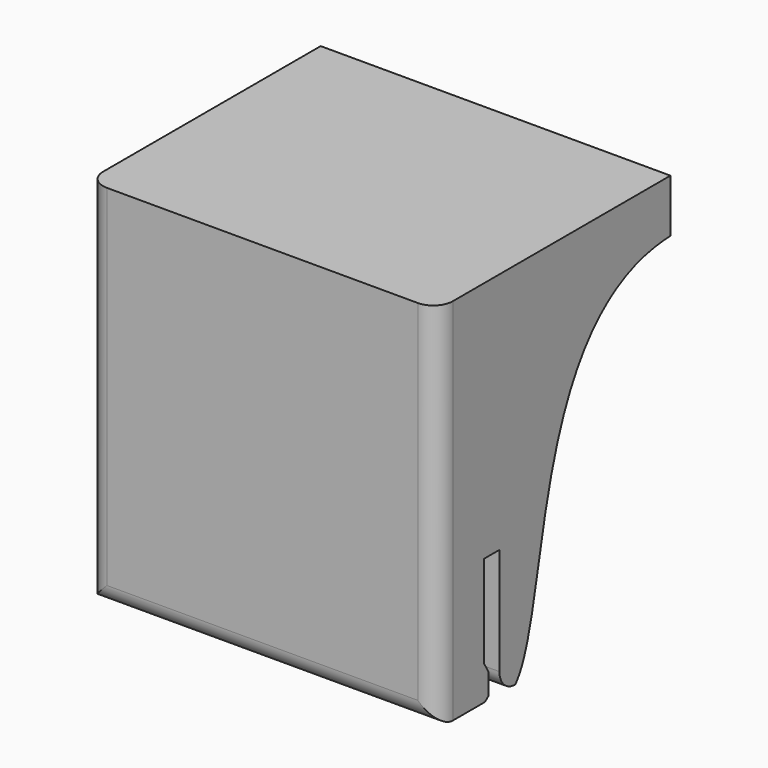
from build123d import *

# Parameters (mm, degrees)
F1_DEPTH = 15
F4_DEPTH = 19
F5_R     = 1


with BuildPart() as f1:
    # F0 (on Front) → F1 (new body)
    with BuildSketch(Plane.XZ):
        Polygon((-9, 12.5), (-9, 0), (-9, -6.5152065011), (8.9999935767, -6.5152065011), (8.9999935767, 12.4847934989), align=None)
    extrude(amount=-F1_DEPTH)

    # F3 (on offset) → F4 (cut)
    with BuildSketch(Plane.YZ.offset(8.9999935767)):
        Polygon((3, -6.568428129), (3, -6.9065713324), (4, -6.9065713324), (4, 0), (3, 0), (3, -4.7258920968), (3.2896485645, -5.2308174782), (3.2896485645, -6.3381111249), align=None)
        with BuildLine():
            add(Edge.make_bspline(
                [(4, -6.9065713324), (7.8309681267, -7.469817996), (4.7241249122, 9.7180437297), (15.3055908158, 9.7582889721)],
                knots=[0, 0, 0, 0, 20.1378735884, 20.1378735884, 20.1378735884, 20.1378735884], degree=3))
            Line((4, -6.9065713324), (4, -7.8707002103))
            Line((4, -7.8707002103), (15.5558949336, -7.8707002103))
            Line((15.5558949336, -7.8707002103), (15.5558949336, -0.2191853659))
            Line((15.5558949336, -0.2191853659), (15.5479665846, 0.0968497843))
            Line((15.5479665846, 0.0968497843), (15.3055908158, 9.7582889721))
        make_face()
    extrude(amount=-F4_DEPTH, mode=Mode.SUBTRACT)

    # F5
    f5_edges = [f1.edges().sort_by_distance(p)[0] for p in [
        (-9, 0, 2.992397),
        (-3e-06, 0, -6.515207),
        (8.999994, 0, 2.984793),
        (-3e-06, 4, -6.515207),
    ]]
    fillet(f5_edges, radius=F5_R)


solid = f1.part
